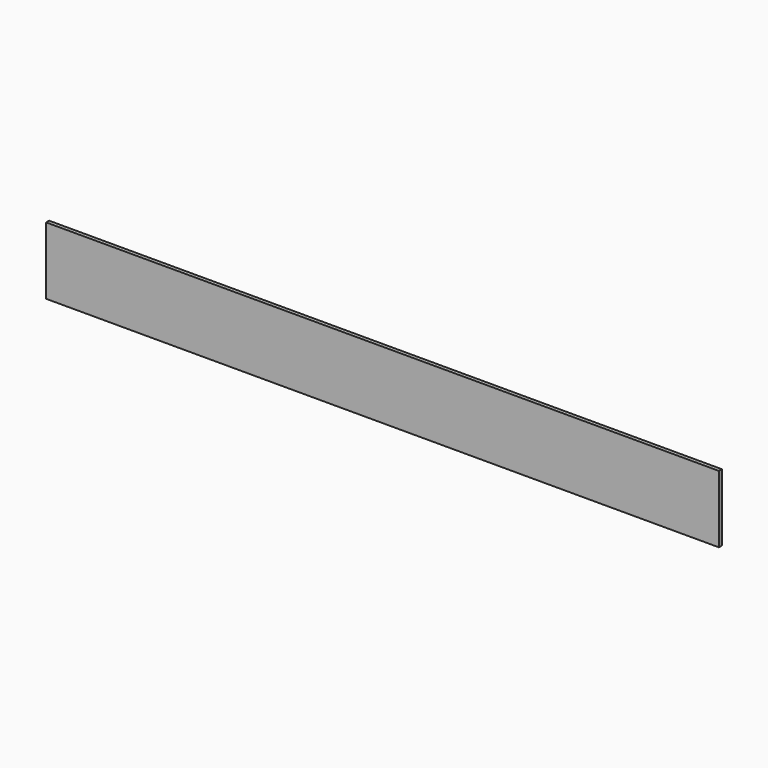
from build123d import *

# Parameters (mm, degrees)
SKETCH_W  = 18288
SKETCH_H  = 1828.8
PAD_DEPTH = 101.6


with BuildPart() as part:
    # Sketch → Pad (new body)
    with BuildSketch(Plane.XZ):
        with Locations((-9144, 914.4)):
            Rectangle(SKETCH_W, SKETCH_H)
    extrude(amount=PAD_DEPTH)


solid = part.part
